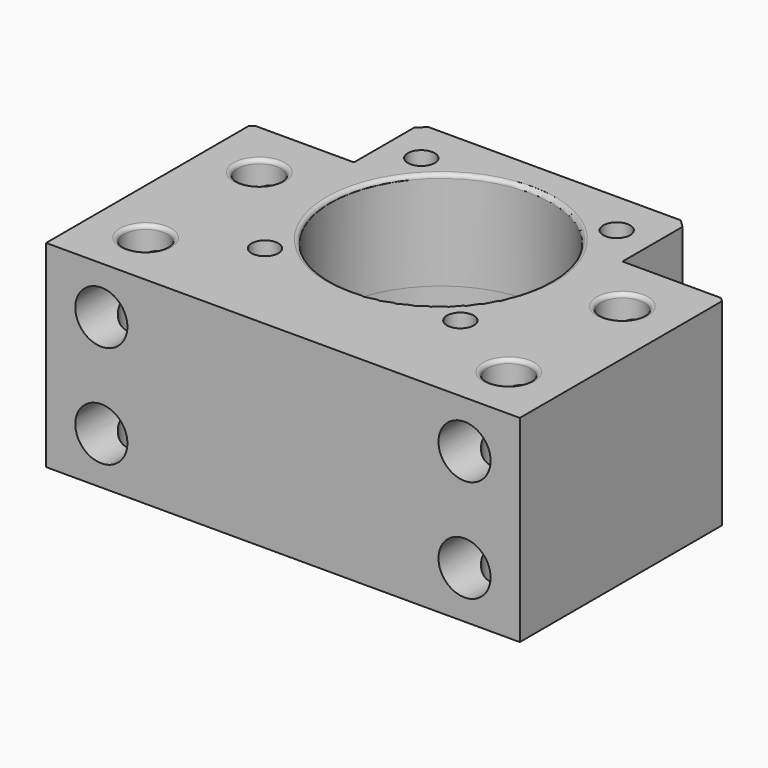
from build123d import *

# Parameters (mm, degrees)
F0_R            = 2.75
F0_R_2          = 14
F1_DEPTH        = 12.5
F1_DEPTH_BACK   = 12.5
F2_SIZE         = 0.5
F3_SIZE         = 1
F4_R            = 0.5
F6_D            = 3.4
F6_DEPTH        = 5
F6_TIP          = 1.0214630523
F7_R            = 14
F7_R_2          = 12.5
F8_DEPTH        = 5
F9_R            = 0.5
F11_D           = 6.6
F11_CBORE_D     = 10.8
F11_CBORE_DEPTH = 1.5


with BuildPart() as f1:
    # F0 (on Top) → F1 (new body, two sides)
    with BuildSketch(Plane.XY) as f1_sk:
        Polygon((-30, 7.5), (-30, -25), (30, -25), (30, 7.5), (17, 7.5), (17, 18), (-17, 18), (-17, 7.5), align=None)
        with Locations((-23, -18)):
            Circle(F0_R, mode=Mode.SUBTRACT)
        with Locations((23, -18)):
            Circle(F0_R, mode=Mode.SUBTRACT)
        with Locations((-23, 0)):
            Circle(F0_R, mode=Mode.SUBTRACT)
        Circle(F0_R_2, mode=Mode.SUBTRACT)
        with Locations((23, 0)):
            Circle(F0_R, mode=Mode.SUBTRACT)
    extrude(amount=F1_DEPTH)
    extrude(f1_sk.sketch, amount=-F1_DEPTH_BACK)

    # F2
    f2_edges = [f1.edges().sort_by_distance(p)[0] for p in [
        (-30, 7.5, 0),
        (30, 7.5, 0),
    ]]
    chamfer(f2_edges, length=F2_SIZE)

    # F3
    f3_edges = [f1.edges().sort_by_distance(p)[0] for p in [
        (-17, 18, 0),
        (17, 18, 0),
    ]]
    chamfer(f3_edges, length=F3_SIZE)

    # F4
    f4_edges = [f1.edges().sort_by_distance(p)[0] for p in [
        (-25.75, 0, 12.5),
        (-20.25, 0, 0),
        (-25.75, 0, -12.5),
        (-25.75, -18, 12.5),
        (-20.25, -18, 0),
        (-25.75, -18, -12.5),
        (20.25, 0, 12.5),
        (25.75, 0, 0),
        (20.25, 0, -12.5),
        (20.25, -18, 12.5),
        (25.75, -18, 0),
        (20.25, -18, -12.5),
        (-14, 0, 12.5),
    ]]
    fillet(f4_edges, radius=F4_R)

    # F6
    with Locations(Plane.XY.offset(12.5)):
        with Locations((-12.3743686708, 12.3743686708), (12.3743686708, 12.3743686708), (12.3743686708, -12.3743686708), (-12.3743686708, -12.3743686708)):
            Hole(F6_D / 2, depth=F6_DEPTH)
            with Locations((0, 0, -(F6_DEPTH + F6_TIP / 2))):  # 118° drill point
                Cone(0, F6_D / 2, F6_TIP, mode=Mode.SUBTRACT)

    # F7 (on face) → F8 (join)
    with BuildSketch(Plane(origin=(0, 0, -12.5), x_dir=(1, 0, 0), z_dir=(0, 0, -1))):
        Circle(F7_R)
        Circle(F7_R_2, mode=Mode.SUBTRACT)
    extrude(amount=-F8_DEPTH)

    # F9
    f9_edges = [f1.edges().sort_by_distance(p)[0] for p in [
        (-12.5, 0, -12.5),
    ]]
    fillet(f9_edges, radius=F9_R)

    # F11 (through all)
    with Locations(Plane(origin=(0, 7.5, 0), x_dir=(-1, 0, 0), z_dir=(0, 1, 0))):
        with Locations((-23, 6.5), (-23, -6.5), (23, 6.5), (23, -6.5)):
            CounterBoreHole(F11_D / 2, F11_CBORE_D / 2, F11_CBORE_DEPTH)


solid = f1.part
